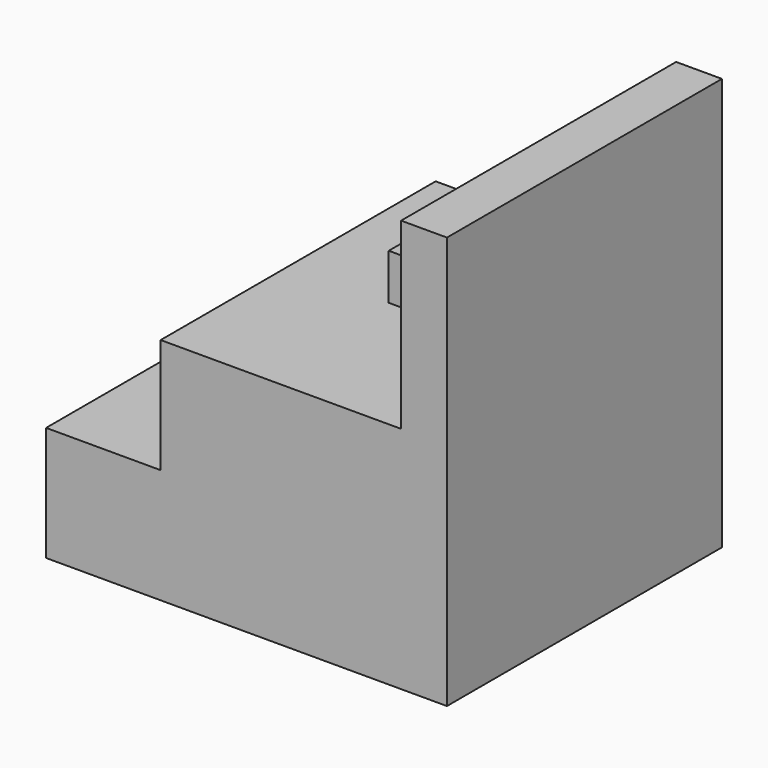
from build123d import *

# Parameters (mm, degrees)
F1_DEPTH = 150
F2_W     = 100
F2_H     = 20
F3_DEPTH = 25.4


with BuildPart() as f1:
    # F0 (on Front) → F1 (new body)
    with BuildSketch(Plane.XZ):
        Polygon((87.471645, 90), (67.471645, 90), (67.471645, 10), (-37.471645, 10), (-37.471645, -40), (-87.471645, -40), (-87.471645, -90), (87.471645, -90), align=None)
    extrude(amount=F1_DEPTH)

    # F2 (on face) → F3 (join)
    with BuildSketch(Plane(origin=(67.471645, 0, 0), x_dir=(0, -1, 0), z_dir=(-1, 0, 0))):
        with Locations((75, 50)):
            Rectangle(F2_W, F2_H)
    extrude(amount=F3_DEPTH)


solid = f1.part
